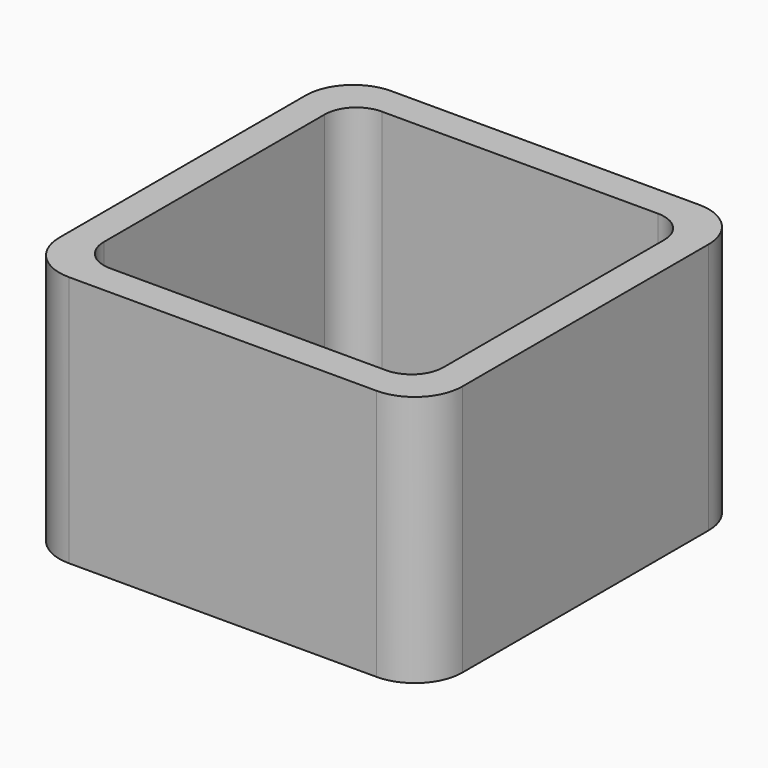
from build123d import *

# Parameters (mm, degrees)
EXTRUDE_DEPTH = 50


with BuildPart() as part:
    # Sketch → Extrude (new body)
    with BuildSketch(Plane.XY):
        with BuildLine():
            Line((-30.55, 40), (30.55, 40))
            ThreePointArc((40, 30.55), (37.232159, 37.232159), (30.55, 40))
            Line((40, 30.55), (40, -30.55))
            ThreePointArc((30.55, -40), (37.232159, -37.232159), (40, -30.55))
            Line((30.55, -40), (-30.55, -40))
            ThreePointArc((-40, -30.55), (-37.232159, -37.232159), (-30.55, -40))
            Line((-40, -30.55), (-40, 30.55))
            ThreePointArc((-30.55, 40), (-37.232159, 37.232159), (-40, 30.55))
        make_face()
        with BuildLine():
            Line((-27.4, 33.7), (27.4, 33.7))
            ThreePointArc((33.7, 27.4), (31.854773, 31.854773), (27.4, 33.7))
            Line((33.7, 27.4), (33.7, -27.4))
            ThreePointArc((27.4, -33.7), (31.854773, -31.854773), (33.7, -27.4))
            Line((27.4, -33.7), (-27.4, -33.7))
            ThreePointArc((-33.7, -27.4), (-31.854773, -31.854773), (-27.4, -33.7))
            Line((-33.7, -27.4), (-33.7, 27.4))
            ThreePointArc((-27.4, 33.7), (-31.854773, 31.854773), (-33.7, 27.4))
        make_face(mode=Mode.SUBTRACT)
    extrude(amount=EXTRUDE_DEPTH)


solid = part.part
